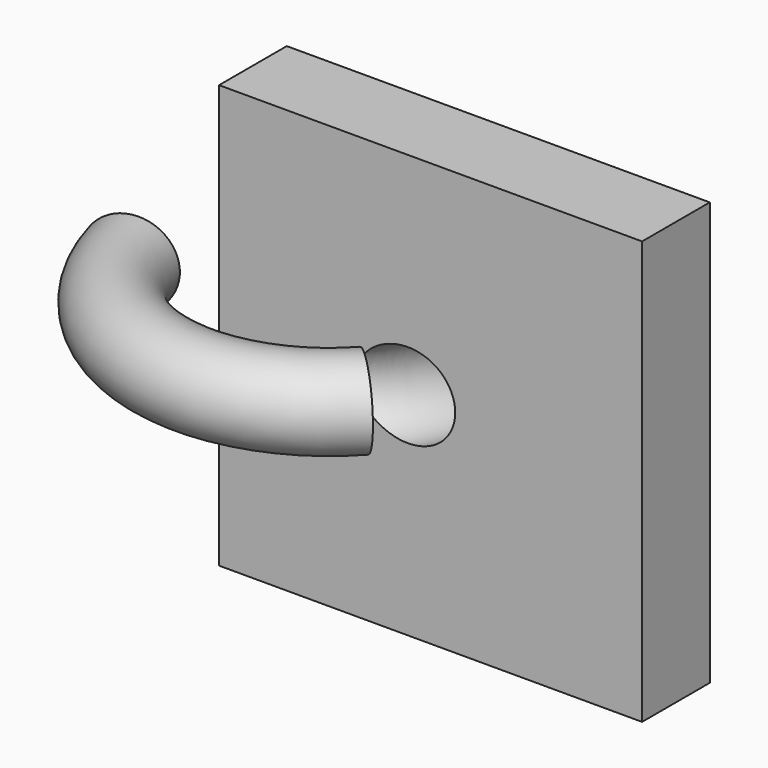
from build123d import *

# Parameters (mm, degrees)
F1_W     = 127
F1_H     = 127
F2_DEPTH = 25.4
F0_R     = 12.7


with BuildPart() as f2:
    # F1 (on Front) → F2 (new body)
    with BuildSketch(Plane.XZ):
        Rectangle(F1_W, F1_H)
    extrude(amount=F2_DEPTH)


with BuildPart() as f4:
    # F4: sweep along a path in F3
    with BuildLine(Plane.XY) as f4_path:
        ThreePointArc((-99.8049734555, -13.3847890021), (-44.0476911925, -50.3492435471), (0, 0))
    # F0 (on Front) → F4 (sweep)
    with BuildSketch(Plane.XZ):
        Circle(F0_R)
    sweep(path=f4_path.line)


with BuildPart() as f6_tool:
    # F6: sweep along a path in F5
    with BuildLine(Plane.XY) as f6_path:
        ThreePointArc((-13.059517534, -34.004352416), (-3.3771336312, -18.2129554264), (0, 0))
    # F0 (on Front) → F6 (sweep)
    with BuildSketch(Plane.XZ):
        Circle(F0_R)
    sweep(path=f6_path.line)


with BuildPart() as f2_1:
    add(f2.part)

    # F6: cut by f6_tool
    add(f6_tool.part, mode=Mode.SUBTRACT)


with BuildPart() as f4_1:
    add(f4.part)

    # F6: cut by f6_tool
    add(f6_tool.part, mode=Mode.SUBTRACT)


solid = Compound([f2_1.part, f4_1.part])
